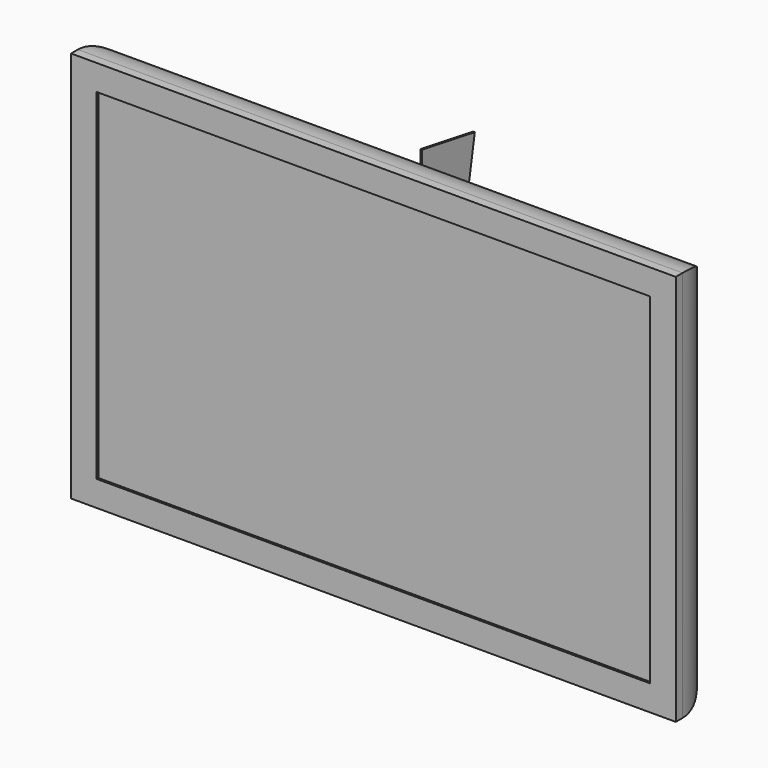
from build123d import *

# Parameters (mm, degrees)
F0_W     = 901.7
F0_H     = 584.2
F1_DEPTH = 88.9
F2_R     = 76.2
F3_W     = 825.5
F3_H     = 508
F4_DEPTH = 3.175
F6_DEPTH = 1.27


with BuildPart() as f1:
    # F0 (on Front) → F1 (new body)
    with BuildSketch(Plane.XZ):
        Rectangle(F0_W, F0_H)
    extrude(amount=-F1_DEPTH)

    # F2
    f2_edges = [f1.edges().sort_by_distance(p)[0] for p in [
        (0, 88.9, 292.1),
        (-450.85, 88.9, 0),
        (0, 88.9, -292.1),
        (450.85, 88.9, 0),
    ]]
    fillet(f2_edges, radius=F2_R)

    # F3 (on face) → F4 (cut)
    with BuildSketch(Plane.XZ):
        Rectangle(F3_W, F3_H)
    extrude(amount=-F4_DEPTH, mode=Mode.SUBTRACT)

    # F5 (on Right) → F6 (join, symmetric)
    with BuildSketch(Plane.YZ):
        Polygon((88.9, -307.528856), (187.325, 259.589197), (88.9, 276.671144), align=None)
    extrude(amount=F6_DEPTH, both=True)


solid = f1.part
